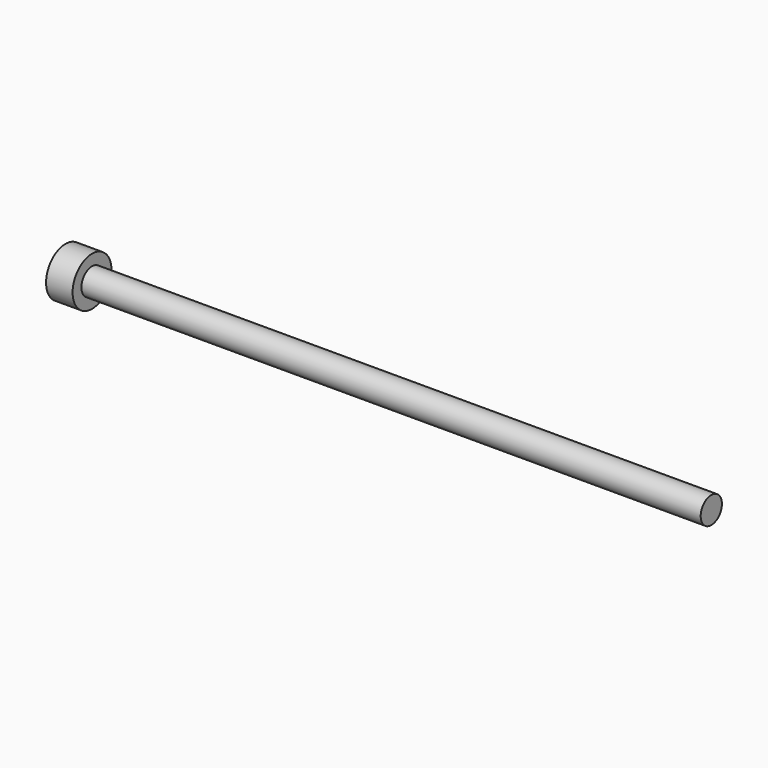
from build123d import *

# Parameters (mm, degrees)
F0_R     = 2.75
F1_DEPTH = 2
F2_R     = 2.75
F3_DEPTH = 1
F4_R     = 1.5
F5_DEPTH = 70


with BuildPart() as f1:
    # F0 (on Right) → F1 (new body)
    with BuildSketch(Plane.YZ):
        Circle(F0_R)
        Polygon((-1.5, -0.866025), (-1.5, 0.866025), (0, 1.732051), (1.5, 0.866025), (1.5, -0.866025), (0, -1.732051), align=None, mode=Mode.SUBTRACT)
    extrude(amount=F1_DEPTH)

    # F2 (on face) → F3 (join)
    with BuildSketch(Plane.YZ.offset(2)):
        Circle(F2_R)
    extrude(amount=F3_DEPTH)

    # F4 (on face) → F5 (join)
    with BuildSketch(Plane.YZ.offset(3)):
        Circle(F4_R)
    extrude(amount=F5_DEPTH)


solid = f1.part
